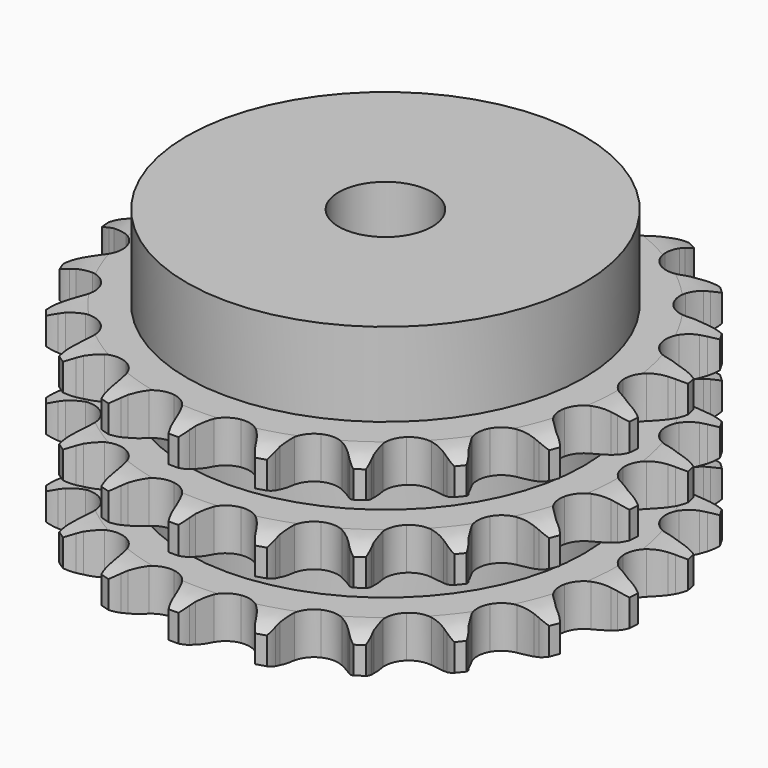
from build123d import *

# Parameters (mm, degrees)
PAD_DEPTH         = 42.1
SKETCH001_R       = 42.5
PAD001_DEPTH      = 60
SKETCH002_R       = 10
POCKET_DEPTH      = 0.001
POCKET_DEPTH_BACK = 60.001


with BuildPart() as part:
    # Sprocket → Pad (new body)
    with BuildSketch(Plane.XY):
        with BuildLine():
            ThreePointArc((-8.672796, 57.540243), (-7.31066, 56.082373), (-6.33219, 54.343582))
            Line((-6.33219, 54.343582), (-5.841747, 53.160938))
            ThreePointArc((-5.841747, 53.160938), (-5.053924, 51.570894), (-4.061016, 50.100166))
            ThreePointArc((-4.061016, 50.100166), (-2.260524, 48.636572), (0, 48.113205))
            ThreePointArc((0, 48.113205), (2.260524, 48.636572), (4.061016, 50.100166))
            ThreePointArc((4.061016, 50.100166), (5.053924, 51.570894), (5.841747, 53.160938))
            Line((5.841747, 53.160938), (6.33219, 54.343582))
            ThreePointArc((6.33219, 54.343582), (7.31066, 56.082373), (8.672796, 57.540243))
            ThreePointArc((8.672796, 57.540243), (9.544702, 55.745645), (9.967183, 53.795695))
            Line((9.967183, 53.795695), (10.087247, 52.521032))
            ThreePointArc((10.087247, 52.521032), (10.371395, 50.769414), (10.886686, 49.071362))
            ThreePointArc((10.886686, 49.071362), (12.175787, 47.142087), (14.181616, 45.97567))
            ThreePointArc((14.181616, 45.97567), (16.495976, 45.809485), (18.64788, 46.67735))
            Line((18.64788, 46.67735), (21.251677, 49.077262))
            ThreePointArc((21.251677, 49.077262), (21.648407, 49.579893), (22.068921, 50.062803))
            ThreePointArc((22.068921, 50.062803), (23.516438, 51.435936), (25.247772, 52.42754))
            ThreePointArc((25.247772, 52.42754), (25.551975, 50.455673), (25.380929, 48.467824))
            Line((25.380929, 48.467824), (25.119945, 47.214402))
            ThreePointArc((25.119945, 47.214402), (24.875171, 45.456849), (24.867059, 43.682351))
            ThreePointArc((24.867059, 43.682351), (25.530225, 41.45882), (27.103133, 39.752996))
            ThreePointArc((27.103133, 39.752996), (29.265689, 38.912024), (31.577797, 39.107048))
            Line((31.577797, 39.107048), (34.773301, 40.632855))
            ThreePointArc((34.773301, 40.632855), (35.300559, 40.996218), (35.844731, 41.333725))
            ThreePointArc((35.844731, 41.333725), (37.632677, 42.21919), (39.579373, 42.65642))
            ThreePointArc((39.579373, 42.65642), (39.288843, 40.682492), (38.539467, 38.833375))
            Line((38.539467, 38.833375), (37.920625, 37.712565))
            ThreePointArc((37.920625, 37.712565), (37.168678, 36.105243), (36.637885, 34.411973))
            ThreePointArc((36.637885, 34.411973), (36.61619, 32.091755), (37.616418, 29.998093))
            ThreePointArc((37.616418, 29.998093), (39.435017, 28.557058), (41.701889, 28.061912))
            Line((41.701889, 28.061912), (45.205165, 28.578041))
            ThreePointArc((45.205165, 28.578041), (45.816102, 28.769848), (46.435579, 28.931963))
            ThreePointArc((46.435579, 28.931963), (48.405087, 29.251083), (50.394173, 29.09509))
            ThreePointArc((50.394173, 29.09509), (49.534725, 27.294493), (48.273605, 25.748409))
            Line((48.273605, 25.748409), (47.351892, 24.859801))
            ThreePointArc((47.351892, 24.859801), (46.159585, 23.545529), (45.153273, 22.083939))
            ThreePointArc((45.153273, 22.083939), (44.448646, 19.873197), (44.787319, 17.577728))
            ThreePointArc((44.787319, 17.577728), (46.10037, 15.664673), (48.120585, 14.523353))
            Line((48.120585, 14.523353), (51.620352, 13.983942))
            ThreePointArc((51.620352, 13.983942), (52.260682, 13.987151), (52.900422, 13.95947))
            ThreePointArc((52.900422, 13.95947), (54.876493, 13.68389), (56.73123, 12.948533))
            ThreePointArc((56.73123, 12.948533), (55.379229, 11.481259), (53.718421, 10.375585))
            Line((53.718421, 10.375585), (52.575735, 9.798134))
            ThreePointArc((52.575735, 9.798134), (51.049011, 8.89369), (49.656595, 7.793651))
            ThreePointArc((49.656595, 7.793651), (48.331645, 5.888818), (47.978671, 3.595504))
            ThreePointArc((47.978671, 3.595504), (48.669504, 1.380413), (50.263556, -0.305671))
            Line((50.263556, -0.305671), (53.448844, -1.852691))
            ThreePointArc((53.448844, -1.852691), (54.061672, -2.038365), (54.664831, -2.253383))
            ThreePointArc((54.664831, -2.253383), (56.471882, -3.099177), (58.027468, -4.348558))
            ThreePointArc((58.027468, -4.348558), (56.303046, -5.352135), (54.390119, -5.919156))
            Line((54.390119, -5.919156), (53.127994, -6.134139))
            ThreePointArc((53.127994, -6.134139), (51.402508, -6.548392), (49.747711, -7.189138))
            ThreePointArc((49.747711, -7.189138), (47.920166, -8.618808), (46.906906, -10.706195))
            ThreePointArc((46.906906, -10.706195), (46.914138, -13.026503), (47.940389, -15.107534))
            Line((47.940389, -15.107534), (50.528172, -17.524704))
            ThreePointArc((50.528172, -17.524704), (51.059045, -17.882764), (51.57203, -18.266013))
            ThreePointArc((51.57203, -18.266013), (53.049496, -19.606869), (54.16771, -21.25926))
            ThreePointArc((54.16771, -21.25926), (52.22409, -21.709969), (50.229017, -21.687953))
            Line((50.229017, -21.687953), (48.959597, -21.521368))
            ThreePointArc((48.959597, -21.521368), (47.188666, -21.40862), (45.418524, -21.53314))
            ThreePointArc((45.418524, -21.53314), (43.250769, -22.360615), (41.667258, -24.056602))
            ThreePointArc((41.667258, -24.056602), (40.990245, -26.275957), (41.357508, -28.567026))
            Line((41.357508, -28.567026), (43.117849, -31.639571))
            ThreePointArc((43.117849, -31.639571), (43.519598, -32.138201), (43.896827, -32.655628))
            ThreePointArc((43.896827, -32.655628), (44.91343, -34.372404), (45.494914, -36.280983))
            ThreePointArc((45.494914, -36.280983), (43.504794, -36.138777), (41.604847, -35.529681))
            Line((41.604847, -35.529681), (40.440925, -34.996328))
            ThreePointArc((40.440925, -34.996328), (38.781905, -34.366599), (37.053702, -33.963828))
            ThreePointArc((37.053702, -33.963828), (34.738352, -34.115584), (32.72529, -35.269475))
            ThreePointArc((32.72529, -35.269475), (31.42419, -37.190677), (31.099831, -39.488213))
            Line((31.099831, -39.488213), (31.876317, -42.943123))
            ThreePointArc((31.876317, -42.943123), (32.113243, -43.538017), (32.321199, -44.143647))
            ThreePointArc((32.321199, -44.143647), (32.786608, -46.0838), (32.779695, -48.078982))
            ThreePointArc((32.779695, -48.078982), (30.919907, -47.356496), (29.283903, -46.214441))
            Line((29.283903, -46.214441), (28.328899, -45.361711))
            ThreePointArc((28.328899, -45.361711), (26.929201, -44.270954), (25.396496, -43.376681))
            ThreePointArc((25.396496, -43.376681), (23.139279, -42.839233), (20.875537, -43.3485))
            ThreePointArc((20.875537, -43.3485), (19.065957, -44.800842), (18.078798, -46.900699))
            Line((18.078798, -46.900699), (17.802434, -50.43099))
            ThreePointArc((17.802434, -50.43099), (17.853486, -51.06929), (17.87369, -51.70931))
            ThreePointArc((17.87369, -51.70931), (17.746553, -53.700449), (17.151856, -55.604953))
            ThreePointArc((17.151856, -55.604953), (15.58765, -54.366382), (14.360955, -52.792845))
            Line((14.360955, -52.792845), (13.699727, -51.696507))
            ThreePointArc((13.699727, -51.696507), (12.683719, -50.241641), (11.4827, -48.935325))
            ThreePointArc((11.4827, -48.935325), (9.48418, -47.756428), (7.170901, -47.57582))
            ThreePointArc((7.170901, -47.57582), (5.01363, -48.430256), (3.451384, -50.145851))
            Line((3.451384, -50.145851), (2.146727, -53.437842))
            ThreePointArc((2.146727, -53.437842), (2.007368, -54.062832), (1.838026, -54.680373))
            ThreePointArc((1.838026, -54.680373), (1.129638, -56.545577), (0, -58.190179))
            ThreePointArc((0, -58.190179), (-1.129638, -56.545577), (-1.838026, -54.680373))
            Line((-1.838026, -54.680373), (-2.146727, -53.437842))
            ThreePointArc((-2.146727, -53.437842), (-2.688767, -51.748138), (-3.451384, -50.145851))
            ThreePointArc((-3.451384, -50.145851), (-5.01363, -48.430256), (-7.170901, -47.57582))
            ThreePointArc((-7.170901, -47.57582), (-9.48418, -47.756428), (-11.4827, -48.935325))
            Line((-11.4827, -48.935325), (-13.699727, -51.696507))
            ThreePointArc((-13.699727, -51.696507), (-14.017113, -52.252654), (-14.360955, -52.792845))
            ThreePointArc((-14.360955, -52.792845), (-15.58765, -54.366382), (-17.151856, -55.604953))
            ThreePointArc((-17.151856, -55.604953), (-17.746553, -53.700449), (-17.87369, -51.70931))
            Line((-17.87369, -51.70931), (-17.802434, -50.43099))
            ThreePointArc((-17.802434, -50.43099), (-17.822344, -48.656585), (-18.078798, -46.900699))
            ThreePointArc((-18.078798, -46.900699), (-19.065957, -44.800842), (-20.875537, -43.3485))
            ThreePointArc((-20.875537, -43.3485), (-23.139279, -42.839233), (-25.396496, -43.376681))
            Line((-25.396496, -43.376681), (-28.328899, -45.361711))
            ThreePointArc((-28.328899, -45.361711), (-28.796112, -45.799599), (-29.283903, -46.214441))
            ThreePointArc((-29.283903, -46.214441), (-30.919907, -47.356496), (-32.779695, -48.078982))
            ThreePointArc((-32.779695, -48.078982), (-32.786608, -46.0838), (-32.321199, -44.143647))
            Line((-32.321199, -44.143647), (-31.876317, -42.943123))
            ThreePointArc((-31.876317, -42.943123), (-31.372327, -41.241682), (-31.099831, -39.488213))
            ThreePointArc((-31.099831, -39.488213), (-31.42419, -37.190677), (-32.72529, -35.269475))
            ThreePointArc((-32.72529, -35.269475), (-34.738352, -34.115584), (-37.053702, -33.963828))
            Line((-37.053702, -33.963828), (-40.440925, -34.996328))
            ThreePointArc((-40.440925, -34.996328), (-41.01645, -35.277048), (-41.604847, -35.529681))
            ThreePointArc((-41.604847, -35.529681), (-43.504794, -36.138777), (-45.494914, -36.280983))
            ThreePointArc((-45.494914, -36.280983), (-44.91343, -34.372404), (-43.896827, -32.655628))
            Line((-43.896827, -32.655628), (-43.117849, -31.639571))
            ThreePointArc((-43.117849, -31.639571), (-42.134742, -30.162274), (-41.357508, -28.567026))
            ThreePointArc((-41.357508, -28.567026), (-40.990245, -26.275957), (-41.667258, -24.056602))
            ThreePointArc((-41.667258, -24.056602), (-43.250769, -22.360615), (-45.418524, -21.53314))
            Line((-45.418524, -21.53314), (-48.959597, -21.521368))
            ThreePointArc((-48.959597, -21.521368), (-49.592297, -21.619977), (-50.229017, -21.687953))
            ThreePointArc((-50.229017, -21.687953), (-52.22409, -21.709969), (-54.16771, -21.25926))
            ThreePointArc((-54.16771, -21.25926), (-53.049496, -19.606869), (-51.57203, -18.266013))
            Line((-51.57203, -18.266013), (-50.528172, -17.524704))
            ThreePointArc((-50.528172, -17.524704), (-49.1533, -16.402815), (-47.940389, -15.107534))
            ThreePointArc((-47.940389, -15.107534), (-46.914138, -13.026503), (-46.906906, -10.706195))
            ThreePointArc((-46.906906, -10.706195), (-47.920166, -8.618808), (-49.747711, -7.189138))
            Line((-49.747711, -7.189138), (-53.127994, -6.134139))
            ThreePointArc((-53.127994, -6.134139), (-53.761651, -6.041876), (-54.390119, -5.919156))
            ThreePointArc((-54.390119, -5.919156), (-56.303046, -5.352135), (-58.027468, -4.348558))
            ThreePointArc((-58.027468, -4.348558), (-56.471882, -3.099177), (-54.664831, -2.253383))
            Line((-54.664831, -2.253383), (-53.448844, -1.852691))
            ThreePointArc((-53.448844, -1.852691), (-51.804371, -1.185895), (-50.263556, -0.305671))
            ThreePointArc((-50.263556, -0.305671), (-48.669504, 1.380413), (-47.978671, 3.595504))
            ThreePointArc((-47.978671, 3.595504), (-48.331645, 5.888818), (-49.656595, 7.793651))
            Line((-49.656595, 7.793651), (-52.575735, 9.798134))
            ThreePointArc((-52.575735, 9.798134), (-53.154045, 10.073072), (-53.718421, 10.375585))
            ThreePointArc((-53.718421, 10.375585), (-55.379229, 11.481259), (-56.73123, 12.948533))
            ThreePointArc((-56.73123, 12.948533), (-54.876493, 13.68389), (-52.900422, 13.95947))
            Line((-52.900422, 13.95947), (-51.620352, 13.983942))
            ThreePointArc((-51.620352, 13.983942), (-49.852397, 14.136398), (-48.120585, 14.523353))
            ThreePointArc((-48.120585, 14.523353), (-46.10037, 15.664673), (-44.787319, 17.577728))
            ThreePointArc((-44.787319, 17.577728), (-44.448646, 19.873197), (-45.153273, 22.083939))
            Line((-45.153273, 22.083939), (-47.351892, 24.859801))
            ThreePointArc((-47.351892, 24.859801), (-47.82347, 25.292984), (-48.273605, 25.748409))
            ThreePointArc((-48.273605, 25.748409), (-49.534725, 27.294493), (-50.394173, 29.09509))
            ThreePointArc((-50.394173, 29.09509), (-48.405087, 29.251083), (-46.435579, 28.931963))
            Line((-46.435579, 28.931963), (-45.205165, 28.578041))
            ThreePointArc((-45.205165, 28.578041), (-43.470819, 28.202609), (-41.701889, 28.061912))
            ThreePointArc((-41.701889, 28.061912), (-39.435017, 28.557058), (-37.616418, 29.998093))
            ThreePointArc((-37.616418, 29.998093), (-36.61619, 32.091755), (-36.637885, 34.411973))
            Line((-36.637885, 34.411973), (-37.920625, 37.712565))
            ThreePointArc((-37.920625, 37.712565), (-38.24357, 38.265503), (-38.539467, 38.833375))
            ThreePointArc((-38.539467, 38.833375), (-39.288843, 40.682492), (-39.579373, 42.65642))
            ThreePointArc((-39.579373, 42.65642), (-37.632677, 42.21919), (-35.844731, 41.333725))
            Line((-35.844731, 41.333725), (-34.773301, 40.632855))
            ThreePointArc((-34.773301, 40.632855), (-33.226667, 39.762895), (-31.577797, 39.107048))
            ThreePointArc((-31.577797, 39.107048), (-29.265689, 38.912024), (-27.103133, 39.752996))
            ThreePointArc((-27.103133, 39.752996), (-25.530225, 41.45882), (-24.867059, 43.682351))
            Line((-24.867059, 43.682351), (-25.119945, 47.214402))
            ThreePointArc((-25.119945, 47.214402), (-25.26556, 47.837964), (-25.380929, 48.467824))
            ThreePointArc((-25.380929, 48.467824), (-25.551975, 50.455673), (-25.247772, 52.42754))
            ThreePointArc((-25.247772, 52.42754), (-23.516438, 51.435936), (-22.068921, 50.062803))
            Line((-22.068921, 50.062803), (-21.251677, 49.077262))
            ThreePointArc((-21.251677, 49.077262), (-20.03018, 47.790073), (-18.64788, 46.67735))
            ThreePointArc((-18.64788, 46.67735), (-16.495976, 45.809485), (-14.181616, 45.97567))
            ThreePointArc((-14.181616, 45.97567), (-12.175787, 47.142087), (-10.886686, 49.071362))
            Line((-10.886686, 49.071362), (-10.087247, 52.521032))
            ThreePointArc((-10.087247, 52.521032), (-10.042595, 53.159812), (-9.967183, 53.795695))
            ThreePointArc((-9.967183, 53.795695), (-9.544702, 55.745645), (-8.672796, 57.540243))
        make_face()
    extrude(amount=PAD_DEPTH)

    # Sketch → Groove (revolve, cut)
    with BuildSketch(Plane.XZ):
        with BuildLine():
            ThreePointArc((49.725762, 0), (53.30347, 0.405129), (56.7, 1.6))
            Line((56.7, 1.6), (56.7, 7.4))
            ThreePointArc((56.7, 7.4), (53.30347, 8.594871), (49.725762, 9))
            Line((42.5, 9), (49.725762, 9))
            Line((42.5, 9), (42.5, 16.55))
            Line((42.5, 16.55), (49.725762, 16.55))
            ThreePointArc((49.725762, 16.55), (53.30347, 16.955129), (56.7, 18.15))
            Line((56.7, 23.95), (56.7, 18.15))
            ThreePointArc((56.7, 23.95), (53.30347, 25.144871), (49.725762, 25.55))
            Line((42.5, 25.55), (49.725762, 25.55))
            Line((42.5, 33.1), (42.5, 25.55))
            Line((49.725762, 33.1), (42.5, 33.1))
            ThreePointArc((49.725762, 33.1), (53.30347, 33.505129), (56.7, 34.7))
            Line((56.7, 34.7), (56.7, 40.5))
            ThreePointArc((56.7, 40.5), (53.30347, 41.694871), (49.725762, 42.1))
            Line((49.725762, 42.1), (66.7, 42.1))
            Line((66.7, 42.1), (66.7, 0))
            Line((49.725762, 0), (66.7, 0))
        make_face()
    revolve(axis=Axis((0, 0, 0), (0, 0, 1)), mode=Mode.SUBTRACT)

    # Sketch001 → Pad001 (join)
    with BuildSketch(Plane.XY):
        Circle(SKETCH001_R)
    extrude(amount=PAD001_DEPTH)

    # Sketch002 → Pocket (cut, two sides)
    with BuildSketch(Plane.XY) as pocket_sk:
        Circle(SKETCH002_R)
    extrude(amount=-POCKET_DEPTH, mode=Mode.SUBTRACT)
    extrude(pocket_sk.sketch, amount=POCKET_DEPTH_BACK, mode=Mode.SUBTRACT)


solid = part.part
